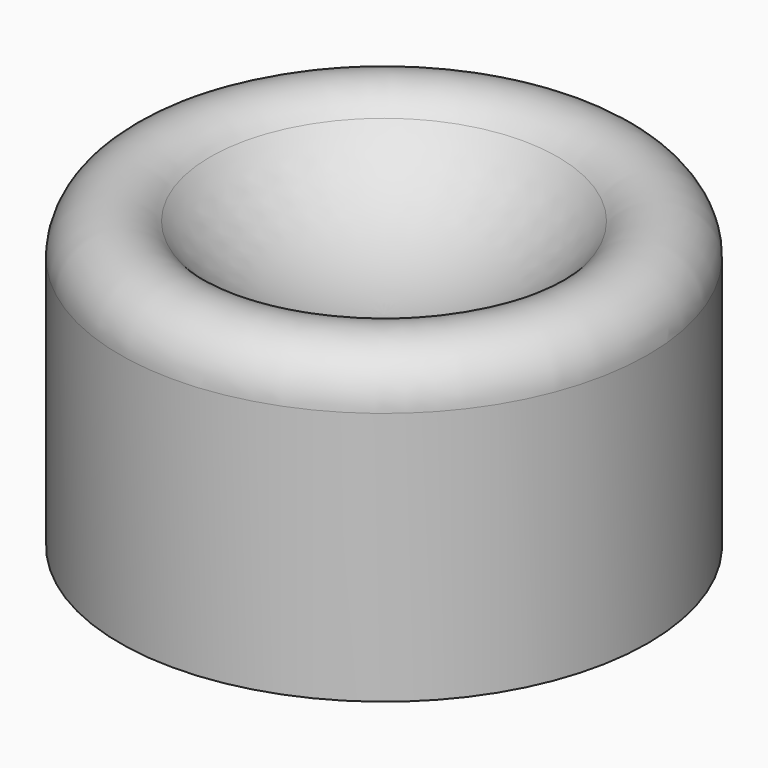
from build123d import *


with BuildPart() as f1:
    # F0 (on Front) → F1 (revolve)
    with BuildSketch(Plane.XZ):
        with BuildLine():
            Line((0, 3), (0, 0))
            Line((0, 0), (3.9, 0))
            Line((3.9, 0), (3.9, 3.75))
            ThreePointArc((3.9, 3.75), (3.400807, 4.456821), (2.567745, 4.222736))
            ThreePointArc((2.567745, 4.222736), (1.422005, 3.321289), (0, 3))
        make_face()
    revolve(axis=Axis((0, 0, 1.5), (0, 0, -1)))


solid = f1.part
